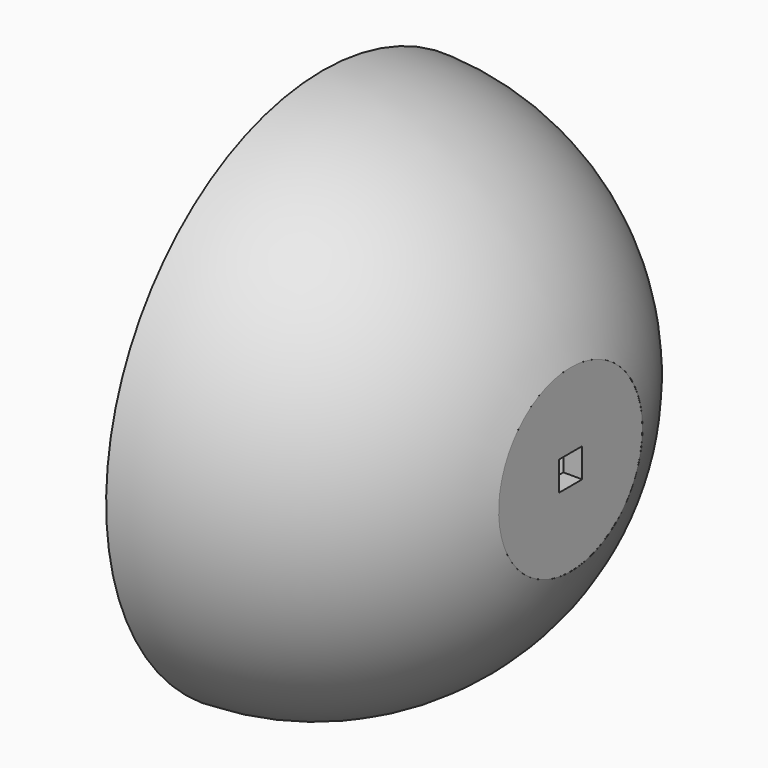
from build123d import *

# Parameters (mm, degrees)
F3_R     = 21.082
F3_W     = 6.858
F3_H     = 6.858
F4_DEPTH = 16.3195
F5_DEPTH = 54.356


with BuildPart() as f1:
    # F0 (on Front) → F1 (revolve)
    with BuildSketch(Plane.XZ):
        with BuildLine():
            Line((60.325, 0), (63.5, 0))
            ThreePointArc((63.5, 0), (45.5255587555, 44.2681996472), (1.778, 63.4751031193))
            Line((1.778, 63.4751031193), (1.778, 60.2987922018))
            ThreePointArc((1.778, 60.2987922018), (33.9600417382, 49.8580102906), (55.4598304439, 23.7342122711))
            ThreePointArc((55.4598304439, 23.7342122711), (59.0961923331, 12.113862998), (60.325, 0))
        make_face()
        with BuildLine():
            Line((55.4598304439, 0), (60.325, 0))
            ThreePointArc((60.325, 0), (59.0961923331, 12.113862998), (55.4598304439, 23.7342122711))
            Line((55.4598304439, 23.7342122711), (55.4598304439, 0))
        make_face()
    revolve(axis=Axis((32.639, 0, 0), (1, 0, 0)))

    # F3 (on offset) → F4 (cut)
    with BuildSketch(Plane.YZ.offset(76.2)):
        Circle(F3_R)
        Rectangle(F3_W, F3_H, mode=Mode.SUBTRACT)
    extrude(amount=-F4_DEPTH, mode=Mode.SUBTRACT)

    # F3 (on offset) → F5 (cut)
    with BuildSketch(Plane.YZ.offset(76.2)):
        Rectangle(F3_W, F3_H)
    extrude(amount=-F5_DEPTH, mode=Mode.SUBTRACT)


solid = f1.part
